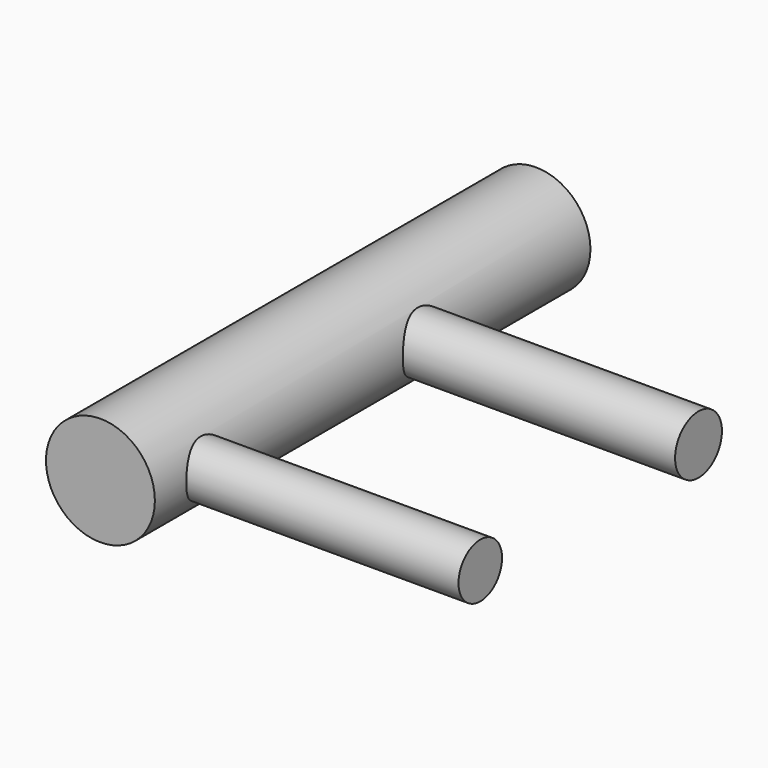
from build123d import *

# Parameters (mm, degrees)
F0_R     = 12.7
F1_DEPTH = 127
F2_R     = 6.35
F2_R_2   = 6.83055
F3_DEPTH = 76.2


with BuildPart() as f1:
    # F0 (on Front) → F1 (new body)
    with BuildSketch(Plane.XZ):
        Circle(F0_R)
    extrude(amount=-F1_DEPTH)

    # F2 (on Right) → F3 (join)
    with BuildSketch(Plane.YZ):
        with Locations((15.50497, 0)):
            Circle(F2_R)
        with Locations((79.131303, 0)):
            Circle(F2_R_2)
    extrude(amount=F3_DEPTH)


solid = f1.part
